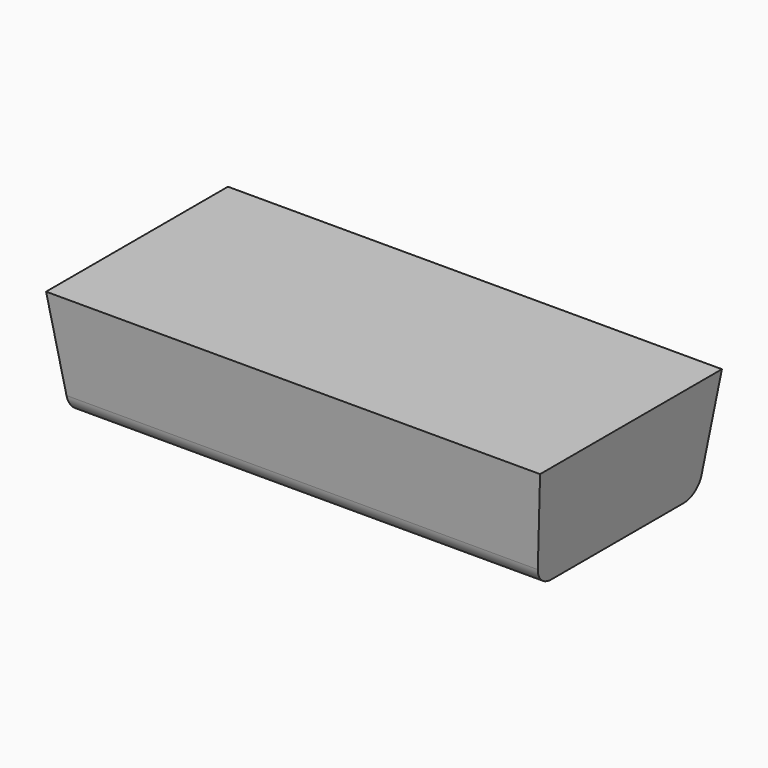
from build123d import *

# Parameters (mm, degrees)
F1_DEPTH      = 150
F3_DEPTH      = 34.5108737383
F3_DEPTH_BACK = 34.5108737383


with BuildPart() as f1:
    # F0 (on Right) → F1 (new body)
    with BuildSketch(Plane.YZ):
        with BuildLine():
            Line((34.5098737383, 37.8046733585), (-34.5098737383, 37.8046733585))
            Line((-34.5098737383, 37.8046733585), (-31.0674993665, 9.7687839396))
            ThreePointArc((-31.0674993665, 9.7687839396), (-29.0879427459, 6.0062656753), (-25.1122224566, 4.5))
            Line((-25.1122224566, 4.5), (25.1122224566, 4.5))
            ThreePointArc((25.1122224566, 4.5), (29.0879427459, 6.0062656753), (31.0674993665, 9.7687839396))
            Line((31.0674993665, 9.7687839396), (34.5098737383, 37.8046733585))
        make_face()
    extrude(amount=F1_DEPTH)

    # F2 (on Front) → F3 (cut, two sides)
    with BuildSketch(Plane.XZ) as f3_sk:
        Polygon((4.0892996943, 4.5), (0, 37.8046733585), (0, 4.5), align=None)
        Polygon((150, 37.8046733585), (145.9107003057, 4.5), (150, 4.5), align=None)
    extrude(amount=-F3_DEPTH, mode=Mode.SUBTRACT)
    extrude(f3_sk.sketch, amount=F3_DEPTH_BACK, mode=Mode.SUBTRACT)


solid = f1.part
